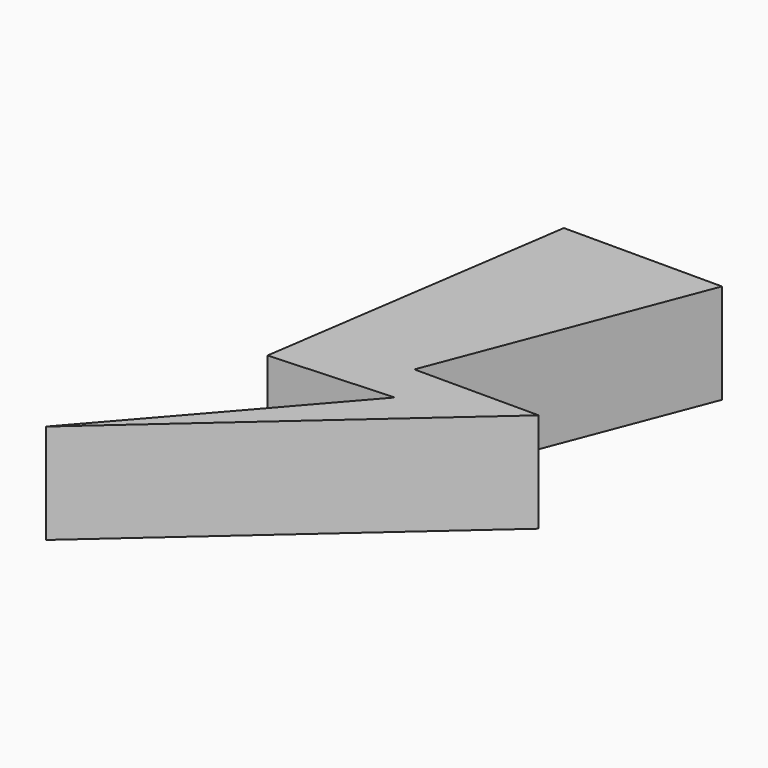
from build123d import *

# Parameters (mm, degrees)
PAD_DEPTH = 10


with BuildPart() as part:
    # Sketch → Pad (new body)
    with BuildSketch(Plane.XY):
        Polygon((0, 19.888361), (15.834005, 19.888361), (5.831713, -6.117624), (18.279015, -6.117624), (-10.616517, -31.679062), (7.609898, -10.785365), (-4.615141, -11.452185), align=None)
    extrude(amount=PAD_DEPTH)


solid = part.part
